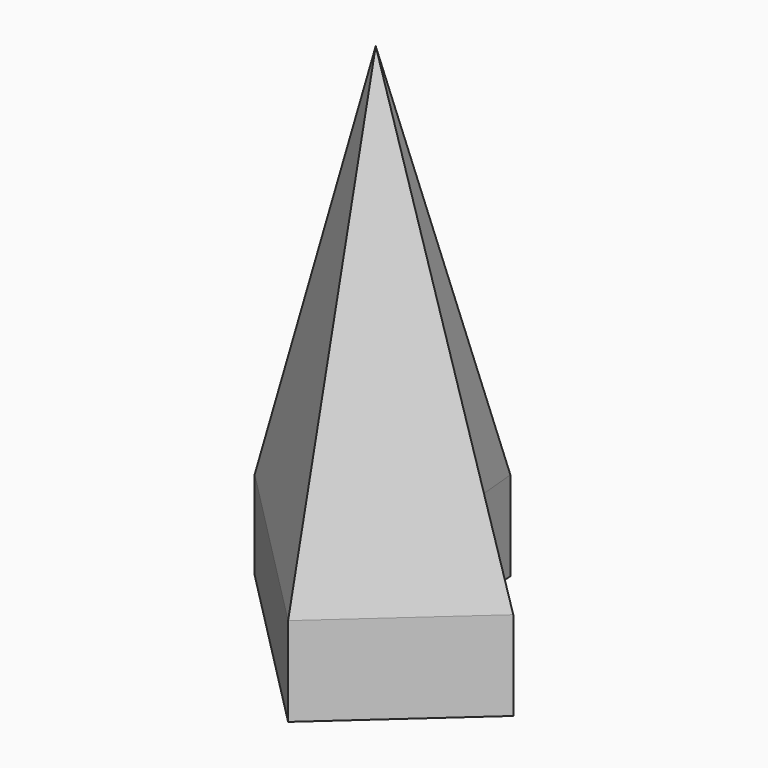
from build123d import *

# Parameters (mm, degrees)
F1_DEPTH = 25


with BuildPart() as f1:
    # F0 (on Top) → F1 (new body)
    with BuildSketch(Plane.XY):
        Polygon((3.729509, 7.889344), (0, 47.192626), (-43.893445, 12.479508), (5.163935, -37.151642), (41.885249, -4.159836), align=None)
    extrude(amount=F1_DEPTH)

    # F1_face (on face) → F4 section 0
    with BuildSketch(Plane(origin=(-3.684593, 1.905517, 25), x_dir=(1, 0, 0), z_dir=(0, 0, 1)), mode=Mode.PRIVATE) as f4_s0:
        Polygon((45.569842, -6.065353), (7.414102, 5.983827), (3.684593, 45.287109), (-40.208852, 10.573991), (8.848528, -39.057159), align=None)
    loft([f4_s0.sketch, Vertex(0, 0, 150)])


solid = f1.part
